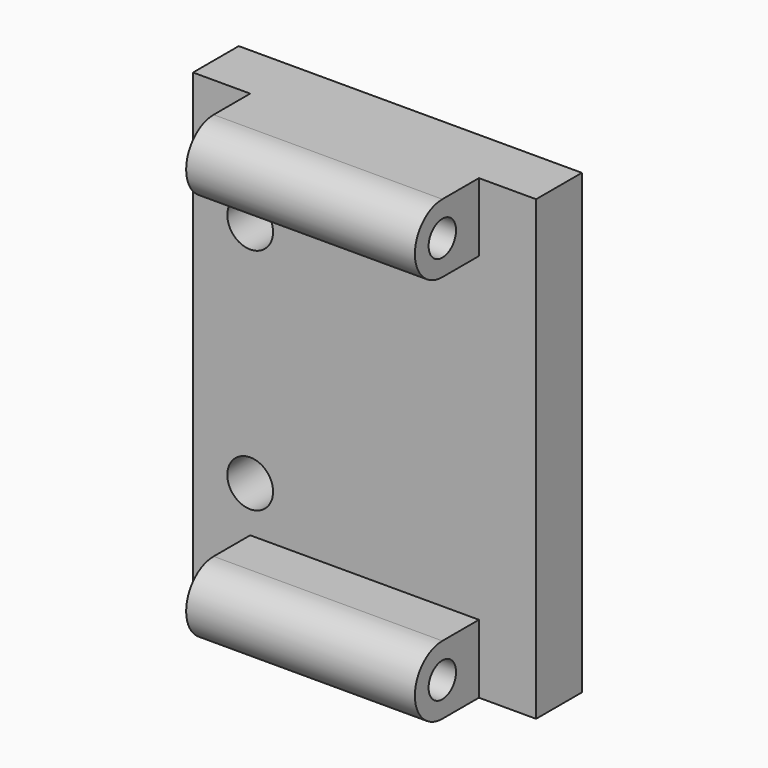
from build123d import *

# Parameters (mm, degrees)
SKETCH_W          = 30
SKETCH_H          = 40
PAD_DEPTH         = 5
PAD001_DEPTH      = 10
SKETCH002_R       = 1.5
POCKET_DEPTH      = 117.840681
POCKET_DEPTH_BACK = 117.840681
SKETCH003_R       = 2
POCKET001_DEPTH   = 12.001


with BuildPart() as part:
    # Sketch (on DatumPlane) → Pad (new body)
    with BuildSketch(Plane.XZ):
        Rectangle(SKETCH_W, SKETCH_H)
    extrude(amount=PAD_DEPTH)

    # Sketch001 (on DatumPlane) → Pad001 (join, symmetric)
    with BuildSketch(Plane.YZ):
        with BuildLine():
            Line((-9, 20), (-5, 20))
            Line((-5, 20), (-5, 14))
            Line((-5, 14), (-9, 14))
            ThreePointArc((-9, 20), (-12, 17), (-9, 14))
        make_face()
    pad001 = extrude(amount=PAD001_DEPTH, both=True)

    # Sketch002 (on DatumPlane) → Pocket (cut, two sides)
    with BuildSketch(Plane.YZ) as pocket_sk:
        with Locations((-9, 17)):
            Circle(SKETCH002_R)
    pocket = extrude(amount=-POCKET_DEPTH, mode=Mode.SUBTRACT) + extrude(pocket_sk.sketch, amount=POCKET_DEPTH_BACK, mode=Mode.SUBTRACT)

    # Mirrored: Pad001, Pocket across XY
    add(pad001.mirror(Plane.XY))
    add(pocket.mirror(Plane.XY), mode=Mode.SUBTRACT)

    # Sketch003 (on DatumPlane) → Pocket001 (cut, through all)
    with BuildSketch(Plane.XZ):
        with Locations((-10, 10)):
            Circle(SKETCH003_R)
        with Locations((-10, -10)):
            Circle(SKETCH003_R)
    extrude(amount=POCKET001_DEPTH, mode=Mode.SUBTRACT)


solid = part.part
